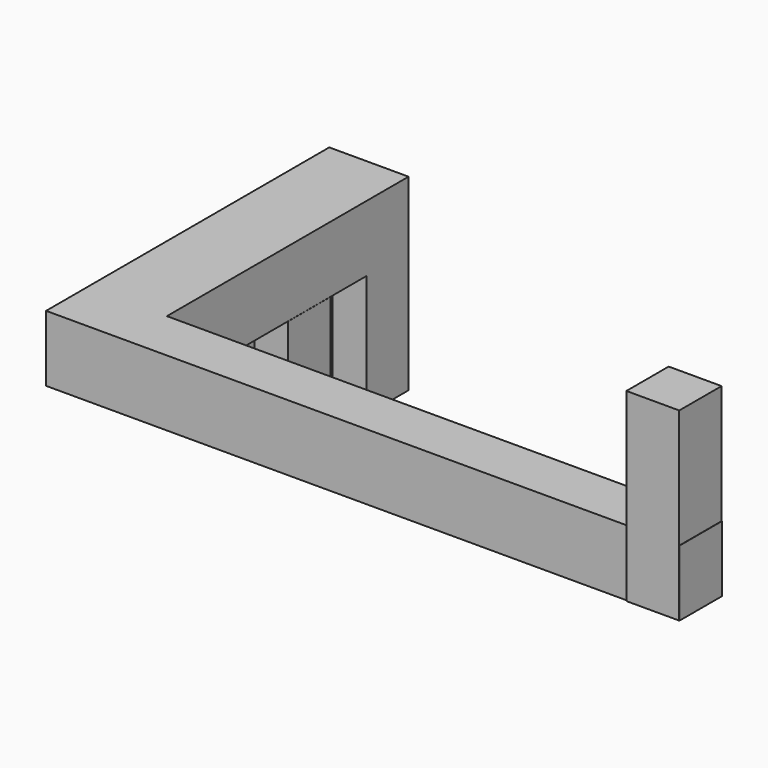
from build123d import *

# Parameters (mm, degrees)
F1_DEPTH      = 25
F2_W          = 30
F2_H          = 8.8426908478
F3_DEPTH      = 20
F5_W          = 4
F5_H          = 20
F6_DEPTH      = 46.1583091522
F6_DEPTH_BACK = 18
F7_W          = 20
F7_H          = 20
F8_DEPTH      = 70
F9_W          = 13.3632806614
F9_H          = 20
F9_W_2        = 12.7708598524
F10_DEPTH     = 47


with BuildPart() as f1:
    # F0 (on Top) → F1 (new body)
    with BuildSketch(Plane.XY):
        Polygon((120.722244599, -49.4738900023), (120.722244599, -29.9738900023), (-89.277755401, -29.9738900023), (-89.277755401, 84.3118136035), (-119.277755401, 84.3118136035), (-119.277755401, -49.6167442972), (110.722244599, -49.6167442972), (110.722244599, -49.4738900023), align=None)
    extrude(amount=F1_DEPTH)

    # F2 (on face) → F3 (join)
    with BuildSketch(Plane(origin=(0, 84.3118136035, 0), x_dir=(-1, 0, 0), z_dir=(0, 1, 0))):
        Polygon((119.5622932736, 8.8426908478), (119.277755401, 8.8426908478), (119.277755401, 0), (89.277755401, 0), (89.277755401, -46.1573091522), (119.5622932736, -46.1573091522), align=None)
        with Locations((104.277755401, 4.4213454239)):
            Rectangle(F2_W, F2_H)
    extrude(amount=-F3_DEPTH)


with BuildPart() as f1_1:
    # F4: moved
    add(f1.part.moved(Location((104, 0, 0))))

    # F5 (on Top) → F6 (cut, two sides)
    with BuildSketch(Plane.XY) as f6_sk:
        with Locations((-9.5e-08, 74.2918348312)):
            Rectangle(F5_W, F5_H)
    extrude(amount=-F6_DEPTH, mode=Mode.SUBTRACT)
    extrude(f6_sk.sketch, amount=F6_DEPTH_BACK, mode=Mode.SUBTRACT)

    # F7 (on Top) → F8 (join)
    with BuildSketch(Plane.XY):
        with Locations((214.6340256929, -40.0454027206)):
            Rectangle(F7_W, F7_H)
    extrude(amount=F8_DEPTH)

    # F9 (on Top) → F10 (join)
    with BuildSketch(Plane.XY):
        with Locations((-8.6816403307, 37.3118136035)):
            Rectangle(F9_W, F9_H)
        with Locations((8.3854299262, 37.3118136035)):
            Rectangle(F9_W_2, F9_H)
    extrude(amount=-F10_DEPTH)


solid = f1_1.part
